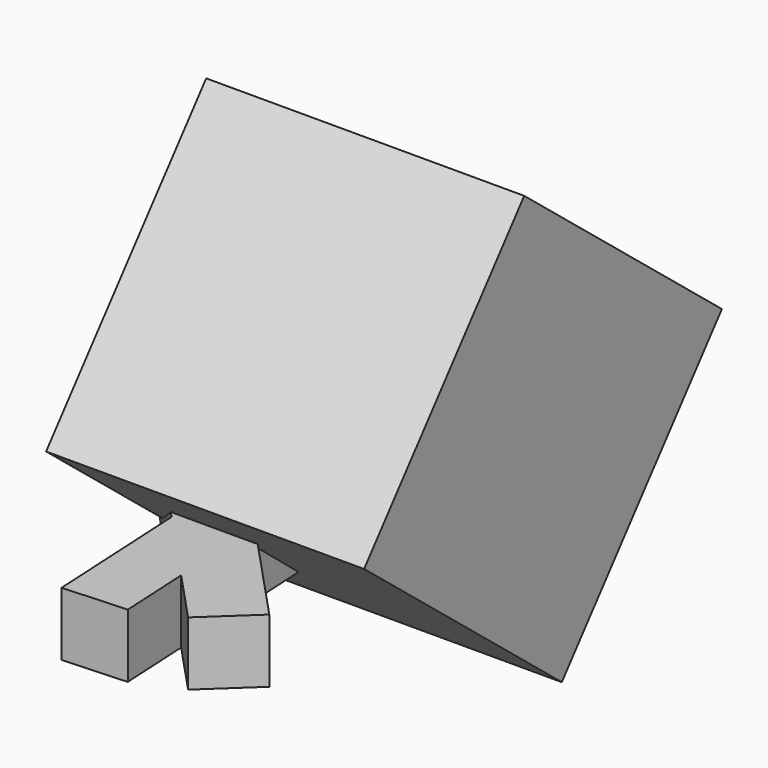
from build123d import *

# Parameters (mm, degrees)
BOX_W                  = 10
BOX_H                  = 10
BOX_DEPTH              = 10
BOX_PLACEMENT_ANGLE    = 51
BOX002_W               = 10
BOX002_H               = 2
BOX002_DEPTH           = 2
BOX002_PLACEMENT_ANGLE = 161
BOX001_W               = 10
BOX001_H               = 2
BOX001_DEPTH           = 2
BOX001_PLACEMENT_ANGLE = 239
FUSION_PLACEMENT_ANGLE = 74


with BuildPart() as cub:
    # Box → Box (new body)
    with BuildSketch(Plane.XY):
        with Locations((5, 5)):
            Rectangle(BOX_W, BOX_H)
    extrude(amount=BOX_DEPTH)


with BuildPart() as cub_1:
    # Box placement: moved
    add(cub.part.moved(Location((4, 10.739128, -2.032332))).rotate(Axis((4, 10.739128, -2.032332), (1, 0, 0)), BOX_PLACEMENT_ANGLE))


with BuildPart() as cub002:
    # Box002 → Box002 (new body)
    with BuildSketch(Plane.XY):
        with Locations((5, 1)):
            Rectangle(BOX002_W, BOX002_H)
    extrude(amount=BOX002_DEPTH)


with BuildPart() as cub002_1:
    # Box002 placement: moved
    add(cub002.part.moved(Location((11.245656, 8.556681, 0))).rotate(Axis((11.245656, 8.556681, 0), (0, 0, -1)), BOX002_PLACEMENT_ANGLE))


with BuildPart() as fusion:
    # Box001 → Box001 (new body)
    with BuildSketch(Plane.XY):
        with Locations((5, 1)):
            Rectangle(BOX001_W, BOX001_H)
    extrude(amount=BOX001_DEPTH)


with BuildPart() as fusion_1:
    # Box001 placement: moved
    add(fusion.part.moved(Location((8.561668, 10.788872, 0))).rotate(Axis((8.561668, 10.788872, 0), (0, 0, 1)), BOX001_PLACEMENT_ANGLE))

    # Fusion: union Cub002
    add(cub002_1.part)


with BuildPart() as fusion_2:
    # Fusion placement: moved
    add(fusion_1.part.moved(Location((10.712159, -2.242894, 0))).rotate(Axis((10.712159, -2.242894, 0), (0, 0, 1)), FUSION_PLACEMENT_ANGLE))


solid = Compound([cub_1.part, fusion_2.part])
